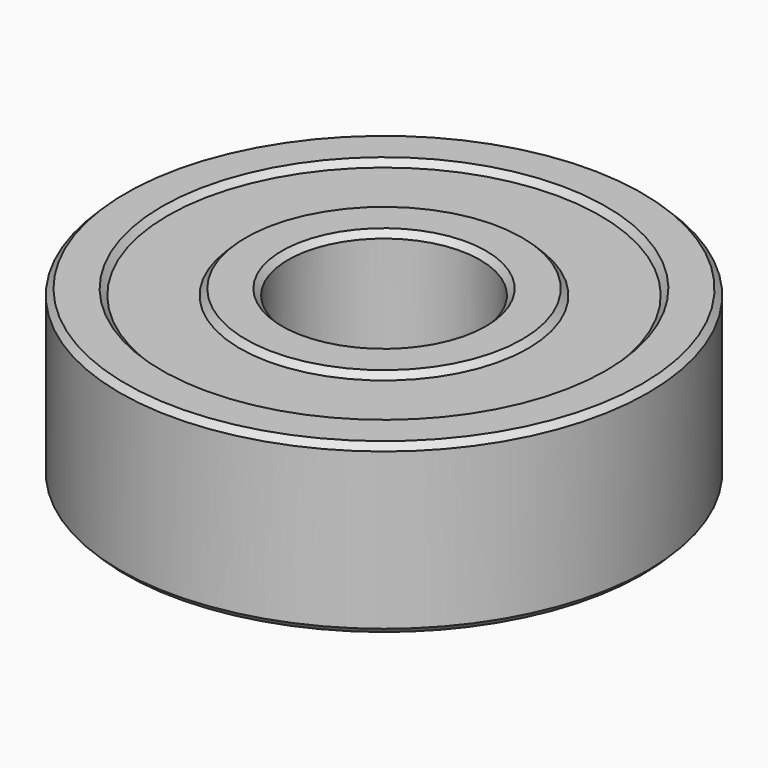
from build123d import *

# Parameters (mm, degrees)
CHAMFER_SIZE = 0.25


with BuildPart() as part:
    # Sketch → Revolution (revolve)
    with BuildSketch(Plane.XZ):
        Polygon((4, -3.5), (5.75, -3.5), (6, -3.25), (9, -3.25), (9.25, -3.5), (11, -3.5), (11, 3.5), (9.25, 3.5), (9, 3.25), (6, 3.25), (5.75, 3.5), (4, 3.5), align=None)
    revolve(axis=Axis((0, 0, 0), (0, 0, 1)))

    # Chamfer
    chamfer_edges = [part.edges().sort_by_distance(p)[0] for p in [
        (-4, 0, -3.5),
        (-4, 0, 3.5),
        (-11, 0, -3.5),
        (-11, 0, 3.5),
    ]]
    chamfer(chamfer_edges, length=CHAMFER_SIZE)


solid = part.part
